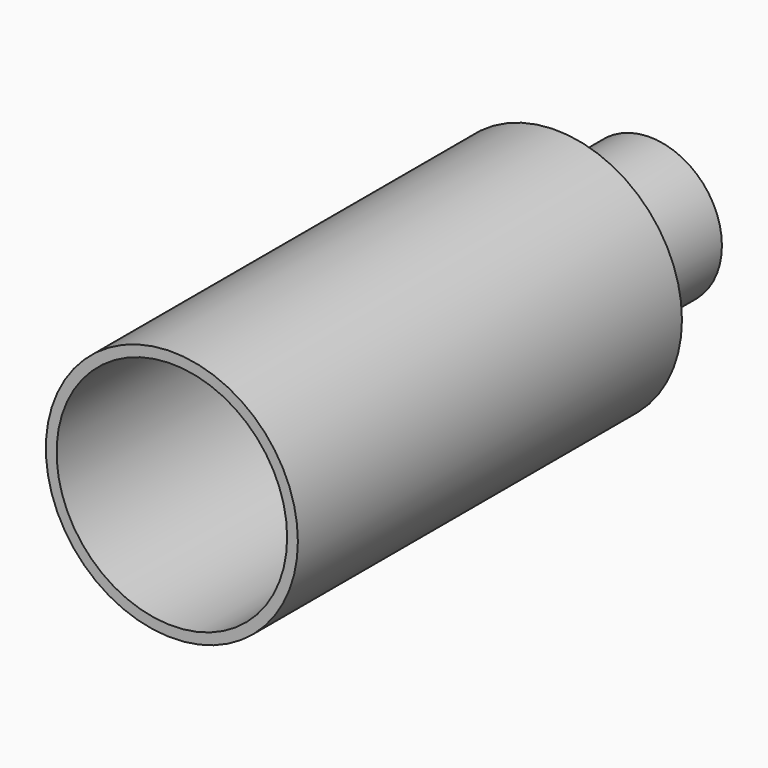
from build123d import *

# Parameters (mm, degrees)
F0_R     = 61.335086
F0_R_2   = 56.104794
F1_DEPTH = 233.659059
F2_R     = 35.115667
F2_R_2   = 29.030205
F3_DEPTH = 57.092033


with BuildPart() as f1:
    # F0 (on Front) → F1 (new body)
    with BuildSketch(Plane.XZ):
        Circle(F0_R)
        Circle(F0_R_2, mode=Mode.SUBTRACT)
    extrude(amount=F1_DEPTH)


with BuildPart() as f3:
    # F2 (on Front) → F3 (new body)
    with BuildSketch(Plane.XZ):
        Circle(F2_R)
        Circle(F2_R_2, mode=Mode.SUBTRACT)
    extrude(amount=-F3_DEPTH)


solid = Compound([f1.part, f3.part])
